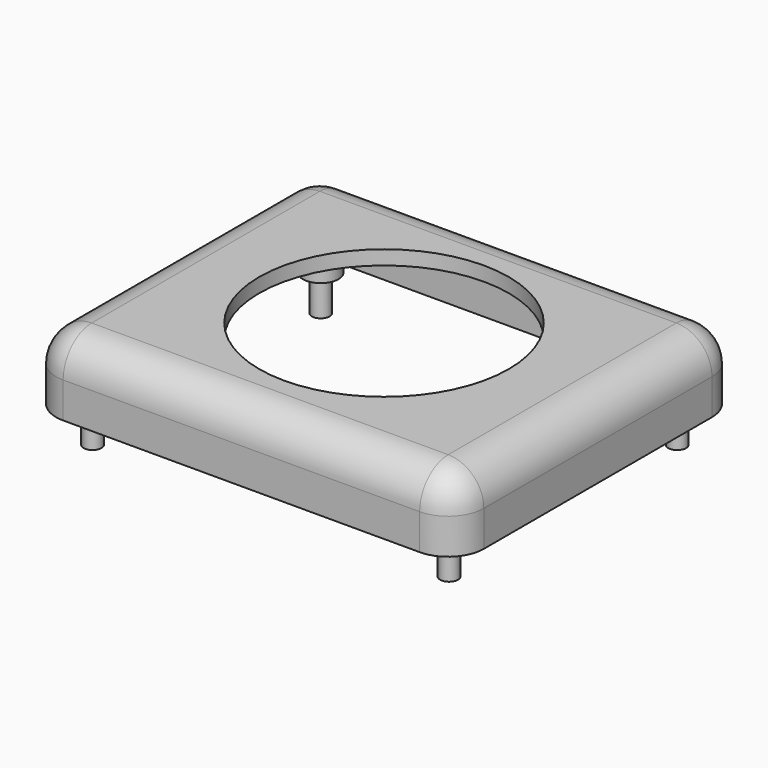
from build123d import *

# Parameters (mm, degrees)
F1_DEPTH  = 12.7
F2_R      = 6.35
F3_T      = -2.54
F4_R      = 3.175
F5_DEPTH  = 2.54
F7_R      = 3.175
F8_DEPTH  = 10.16
F9_R      = 1.5875
F10_DEPTH = 6.35
F11_R     = 22.225
F12_DEPTH = 2.54


with BuildPart() as f1:
    # F0 (on Top) → F1 (new body)
    with BuildSketch(Plane.XY):
        with BuildLine():
            Line((-31.75, -31.75), (31.75, -31.75))
            ThreePointArc((31.75, -31.75), (36.2401280605, -29.8901280605), (38.1, -25.4))
            Line((38.1, -25.4), (38.1, 25.4))
            ThreePointArc((38.1, 25.4), (36.2401280605, 29.8901280605), (31.75, 31.75))
            Line((31.75, 31.75), (-31.75, 31.75))
            ThreePointArc((-31.75, 31.75), (-36.2401280605, 29.8901280605), (-38.1, 25.4))
            Line((-38.1, 25.4), (-38.1, -25.4))
            ThreePointArc((-38.1, -25.4), (-36.2401280605, -29.8901280605), (-31.75, -31.75))
        make_face()
    extrude(amount=F1_DEPTH)

    # F2
    f2_edges = [f1.edges().sort_by_distance(p)[0] for p in [
        (0, -31.75, 12.7),
        (36.240128, -29.890128, 12.7),
        (38.1, 0, 12.7),
        (36.240128, 29.890128, 12.7),
        (0, 31.75, 12.7),
        (-36.240128, 29.890128, 12.7),
        (-38.1, 0, 12.7),
        (-36.240128, -29.890128, 12.7),
    ]]
    fillet(f2_edges, radius=F2_R)

    # F3
    f3_openings = [f1.faces().sort_by_distance(p)[0] for p in [
        (0, 0, 0),
    ]]
    offset(amount=F3_T, openings=f3_openings)

    # F4 (on face) → F5 (cut, through all)
    with BuildSketch(Plane(origin=(-38.1, 0, 0), x_dir=(0, -1, 0), z_dir=(-1, 0, 0))):
        with Locations((19.05, 0)):
            Circle(F4_R)
    extrude(amount=-F5_DEPTH, mode=Mode.SUBTRACT)

    # F7 (on offset) → F8 (join, through all)
    with BuildSketch(Plane(origin=(0, 0, 10.16), x_dir=(1, 0, 0), z_dir=(0, 0, -1))):
        with Locations((-31.5977446735, 25.4)):
            Circle(F7_R)
        with Locations((-31.5977446735, -25.4)):
            Circle(F7_R)
        with Locations((31.9022553265, 25.4)):
            Circle(F7_R)
        with Locations((31.9022553265, -25.4)):
            Circle(F7_R)
    extrude(amount=F8_DEPTH)

    # F9 (on face) → F10 (join)
    with BuildSketch(Plane(origin=(0, 0, 0), x_dir=(1, 0, 0), z_dir=(0, 0, -1))):
        with Locations((-31.5977446735, 25.4)):
            Circle(F9_R)
        with Locations((-31.5977446735, -25.4)):
            Circle(F9_R)
        with Locations((31.9022553265, 25.4)):
            Circle(F9_R)
        with Locations((31.9022553265, -25.4)):
            Circle(F9_R)
    extrude(amount=F10_DEPTH)

    # F11 (on face) → F12 (cut, through all)
    with BuildSketch(Plane.XY.offset(12.7)):
        Circle(F11_R)
    extrude(amount=-F12_DEPTH, mode=Mode.SUBTRACT)


solid = f1.part
